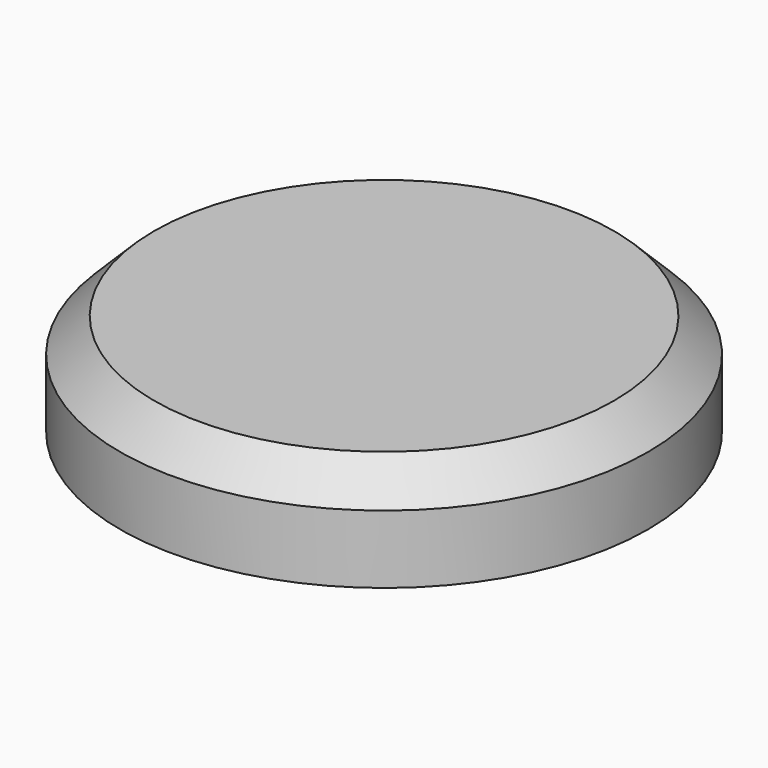
from build123d import *

# Parameters (mm, degrees)
F0_R     = 24.60625
F1_DEPTH = 9.525
F2_R     = 21.43125
F3_DEPTH = 3.175
F4_R     = 9.525
F5_DEPTH = 3.175
F6_SIZE  = 3.175


with BuildPart() as f1:
    # F0 (on Top) → F1 (new body)
    with BuildSketch(Plane.XY):
        Circle(F0_R)
    extrude(amount=F1_DEPTH)

    # F2 (on face) → F3 (cut)
    with BuildSketch(Plane.XY):
        Circle(F2_R)
    extrude(amount=F3_DEPTH, mode=Mode.SUBTRACT)

    # F4 (on face) → F5 (cut)
    with BuildSketch(Plane(origin=(0, 0, 3.175), x_dir=(1, 0, 0), z_dir=(0, 0, -1))):
        Circle(F4_R)
    extrude(amount=-F5_DEPTH, mode=Mode.SUBTRACT)

    # F6
    f6_edges = [f1.edges().sort_by_distance(p)[0] for p in [
        (-24.60625, 0, 9.525),
    ]]
    chamfer(f6_edges, length=F6_SIZE)


solid = f1.part
